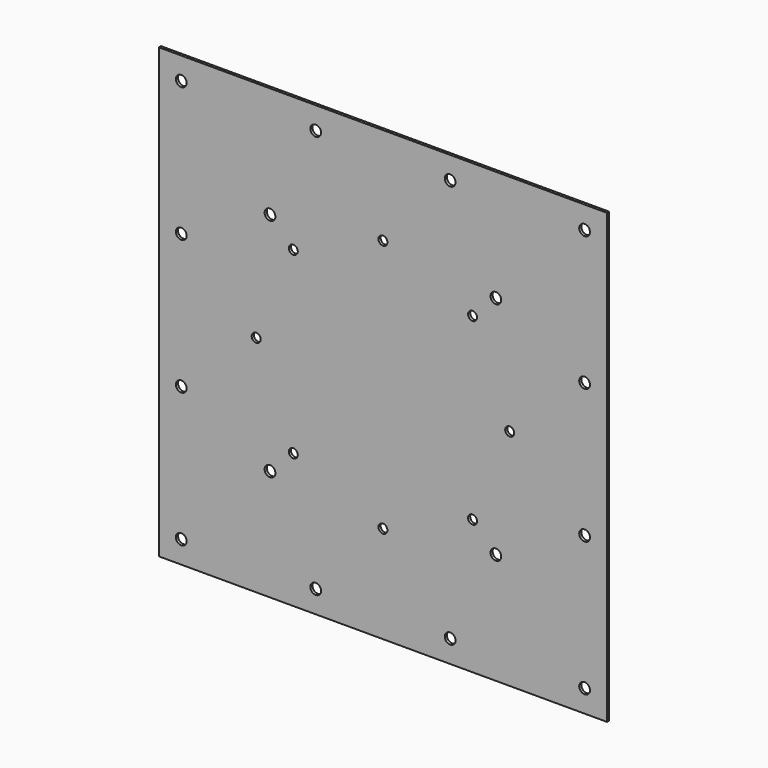
from build123d import *

# Parameters (mm, degrees)
F0_W     = 500
F0_H     = 500
F1_DEPTH = 3
F3_D     = 10
F5_D     = 12
F7_D     = 12


with BuildPart() as f1:
    # F0 (on Front) → F1 (new body)
    with BuildSketch(Plane.XZ):
        with Locations((250, 250)):
            Rectangle(F0_W, F0_H)
    extrude(amount=F1_DEPTH)

    # F3 (through all)
    with Locations(Plane.XZ.offset(3)):
        with Locations((150, 350), (250, 391.421356), (350, 350), (391.421356, 250), (350, 150), (250, 108.578644), (150, 150), (108.578644, 250)):
            Hole(F3_D / 2)

    # F5 (through all)
    with Locations(Plane.XZ.offset(3)):
        with Locations((25, 325), (25, 475), (175, 475), (325, 475), (475, 475), (475, 325), (475, 175), (475, 25), (325, 25), (175, 25), (25, 25), (25, 175)):
            Hole(F5_D / 2)

    # F7 (through all)
    with Locations(Plane.XZ.offset(3)):
        with Locations((124, 376), (376, 376), (376, 124), (124, 124)):
            Hole(F7_D / 2)


solid = f1.part
